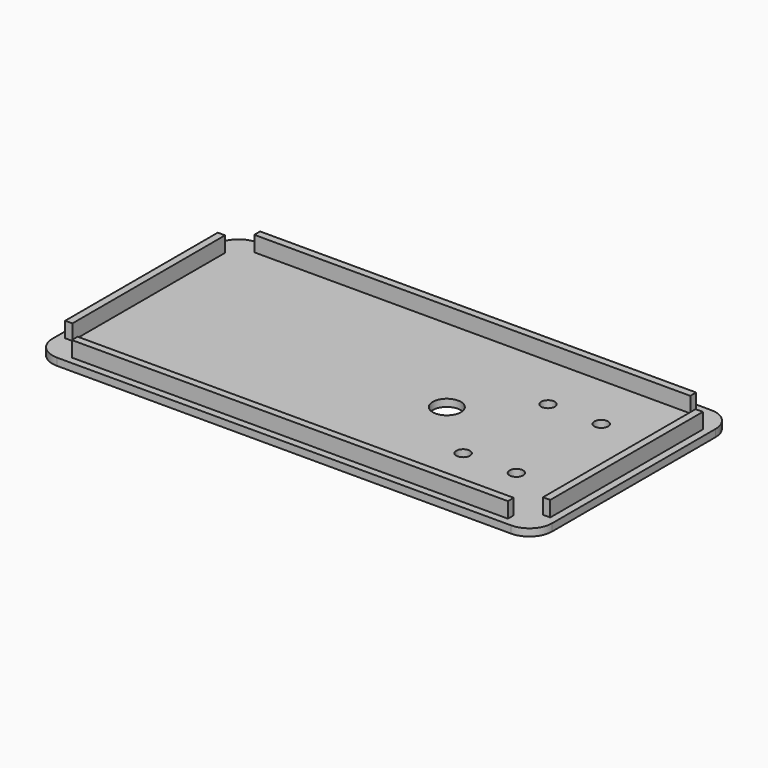
from build123d import *

# Parameters (mm, degrees)
F0_W     = 110
F0_H     = 55
F1_DEPTH = 1.6
F2_R     = 1.5
F2_R_2   = 3.1
F3_DEPTH = 1.6
F2_W     = 96
F2_H     = 1.6
F2_W_2   = 1.6
F2_H_2   = 42
F4_DEPTH = 3.4
F5_R     = 5


with BuildPart() as f1:
    # F0 (on Top) → F1 (new body)
    with BuildSketch(Plane.XY):
        Rectangle(F0_W, F0_H)
    extrude(amount=F1_DEPTH)

    # F2 (on face) → F3 (cut, through all)
    with BuildSketch(Plane.XY.offset(1.6)):
        with Locations((26.762206, 11.680291)):
            Circle(F2_R)
        with Locations((38.488474, 11.680291)):
            Circle(F2_R)
        with Locations((26.762206, -11.680291)):
            Circle(F2_R)
        with Locations((38.488474, -11.680291)):
            Circle(F2_R)
        with Locations((13.829022, 0)):
            Circle(F2_R_2)
    extrude(amount=-F3_DEPTH, mode=Mode.SUBTRACT)

    # F2 (on face) → F4 (join)
    with BuildSketch(Plane.XY.offset(1.6)):
        with Locations((0, 25.1)):
            Rectangle(F2_W, F2_H)
        with Locations((-52.6, 0)):
            Rectangle(F2_W_2, F2_H_2)
        with Locations((0, -25.1)):
            Rectangle(F2_W, F2_H)
        with Locations((52.6, 0)):
            Rectangle(F2_W_2, F2_H_2)
    extrude(amount=F4_DEPTH)

    # F5
    f5_edges = [f1.edges().sort_by_distance(p)[0] for p in [
        (55, -27.5, 0.8),
        (-55, -27.5, 0.8),
        (55, 27.5, 0.8),
        (-55, 27.5, 0.8),
    ]]
    fillet(f5_edges, radius=F5_R)


solid = f1.part
